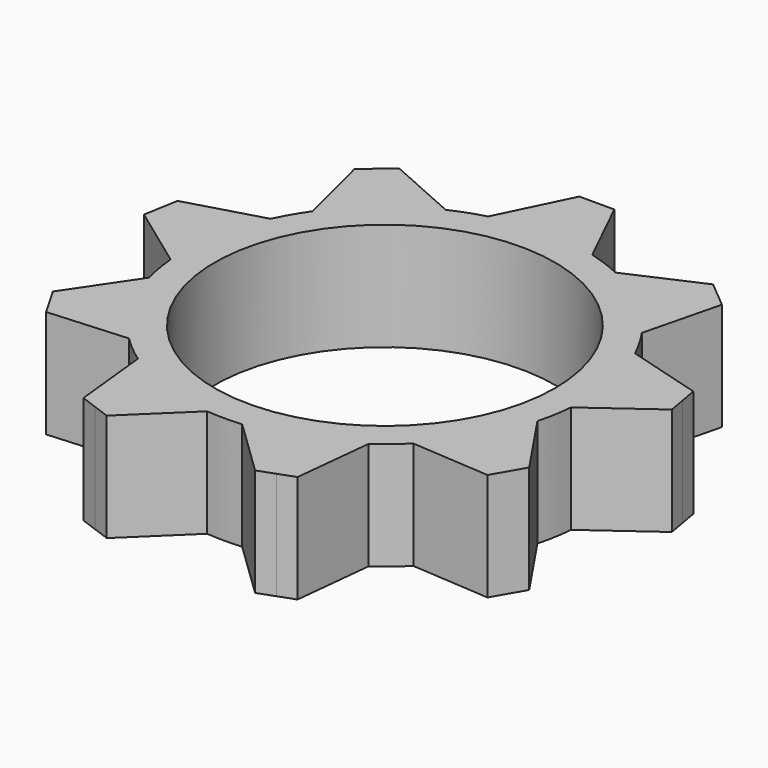
from build123d import *

# Parameters (mm, degrees)
F0_R     = 11.05
F1_DEPTH = 7


with BuildPart() as f1:
    # F0 (on Top) → F1 (new body)
    with BuildSketch(Plane.XY):
        with BuildLine():
            ThreePointArc((-3.377589, 12.605332), (0, 13.05), (3.377589, 12.605332))
            Line((3.377589, 12.605332), (1.135, 17.2))
            Line((1.135, 17.2), (0, 17.2))
            Line((0, 17.2), (-1.135, 17.2))
            Line((-1.135, 17.2), (-3.377589, 12.605332))
        make_face()
        with BuildLine():
            ThreePointArc((13.000341, -1.137382), (13.037579, -0.569233), (13.05, 0))
            ThreePointArc((13.05, 0), (12.740663, 2.824537), (11.827317, 5.515168))
            ThreePointArc((11.827317, 5.515168), (11.301632, 6.525), (10.689934, 7.485172))
            ThreePointArc((10.689934, 7.485172), (8.388378, 9.99688), (5.515168, 11.827317))
            ThreePointArc((5.515168, 11.827317), (4.463363, 12.262989), (3.377589, 12.605332))
            ThreePointArc((3.377589, 12.605332), (0, 13.05), (-3.377589, 12.605332))
            ThreePointArc((-3.377589, 12.605332), (-4.463363, 12.262989), (-5.515168, 11.827317))
            ThreePointArc((-5.515168, 11.827317), (-8.388378, 9.99688), (-10.689934, 7.485172))
            ThreePointArc((-10.689934, 7.485172), (-11.301632, 6.525), (-11.827317, 5.515168))
            ThreePointArc((-11.827317, 5.515168), (-12.851741, 2.266109), (-13.000341, -1.137382))
            ThreePointArc((-13.000341, -1.137382), (-12.851741, -2.266109), (-12.605332, -3.377589))
            ThreePointArc((-12.605332, -3.377589), (-11.301632, -6.525), (-9.227743, -9.227743))
            ThreePointArc((-9.227743, -9.227743), (-8.388378, -9.99688), (-7.485172, -10.689934))
            ThreePointArc((-7.485172, -10.689934), (-4.463363, -12.262989), (-1.137382, -13.000341))
            ThreePointArc((-1.137382, -13.000341), (0, -13.05), (1.137382, -13.000341))
            ThreePointArc((1.137382, -13.000341), (4.463363, -12.262989), (7.485172, -10.689934))
            ThreePointArc((7.485172, -10.689934), (8.388378, -9.99688), (9.227743, -9.227743))
            ThreePointArc((9.227743, -9.227743), (11.301632, -6.525), (12.605332, -3.377589))
            ThreePointArc((12.605332, -3.377589), (12.851741, -2.266109), (13.000341, -1.137382))
        make_face()
        Circle(F0_R, mode=Mode.SUBTRACT)
        with BuildLine():
            ThreePointArc((5.515168, 11.827317), (8.388378, 9.99688), (10.689934, 7.485172))
            Line((10.689934, 7.485172), (11.925407, 12.4464))
            Line((11.925407, 12.4464), (11.055947, 13.175964))
            Line((11.055947, 13.175964), (10.186486, 13.905528))
            Line((10.186486, 13.905528), (5.515168, 11.827317))
        make_face()
        with BuildLine():
            ThreePointArc((11.827317, 5.515168), (12.740663, 2.824537), (13.05, 0))
            ThreePointArc((13.05, 0), (13.037579, -0.569233), (13.000341, -1.137382))
            Line((13.000341, -1.137382), (17.135784, 1.868992))
            Line((17.135784, 1.868992), (16.938693, 2.986749))
            Line((16.938693, 2.986749), (16.741603, 4.104505))
            Line((16.741603, 4.104505), (11.827317, 5.515168))
        make_face()
        with BuildLine():
            Line((15.463137, -7.617061), (12.605332, -3.377589))
            ThreePointArc((12.605332, -3.377589), (11.301632, -6.525), (9.227743, -9.227743))
            Line((9.227743, -9.227743), (14.328137, -9.582939))
            Line((14.328137, -9.582939), (14.895637, -8.6))
            Line((14.895637, -8.6), (15.463137, -7.617061))
        make_face()
        with BuildLine():
            Line((6.949298, -15.77452), (7.485172, -10.689934))
            ThreePointArc((7.485172, -10.689934), (4.463363, -12.262989), (1.137382, -13.000341))
            Line((1.137382, -13.000341), (4.816195, -16.550906))
            Line((4.816195, -16.550906), (5.882746, -16.162713))
            Line((5.882746, -16.162713), (6.949298, -15.77452))
        make_face()
        with BuildLine():
            Line((-4.816195, -16.550906), (-1.137382, -13.000341))
            ThreePointArc((-1.137382, -13.000341), (-4.463363, -12.262989), (-7.485172, -10.689934))
            Line((-7.485172, -10.689934), (-6.949298, -15.77452))
            Line((-6.949298, -15.77452), (-5.882746, -16.162713))
            Line((-5.882746, -16.162713), (-4.816195, -16.550906))
        make_face()
        with BuildLine():
            Line((-14.328137, -9.582939), (-9.227743, -9.227743))
            ThreePointArc((-9.227743, -9.227743), (-11.301632, -6.525), (-12.605332, -3.377589))
            Line((-12.605332, -3.377589), (-15.463137, -7.617061))
            Line((-15.463137, -7.617061), (-14.895637, -8.6))
            Line((-14.895637, -8.6), (-14.328137, -9.582939))
        make_face()
        with BuildLine():
            ThreePointArc((-13.000341, -1.137382), (-12.851741, 2.266109), (-11.827317, 5.515168))
            Line((-11.827317, 5.515168), (-16.741603, 4.104505))
            Line((-16.741603, 4.104505), (-16.938693, 2.986749))
            Line((-16.938693, 2.986749), (-17.135784, 1.868992))
            Line((-17.135784, 1.868992), (-13.000341, -1.137382))
        make_face()
        with BuildLine():
            ThreePointArc((-10.689934, 7.485172), (-8.388378, 9.99688), (-5.515168, 11.827317))
            Line((-5.515168, 11.827317), (-10.186486, 13.905528))
            Line((-10.186486, 13.905528), (-11.055947, 13.175964))
            Line((-11.055947, 13.175964), (-11.925407, 12.4464))
            Line((-11.925407, 12.4464), (-10.689934, 7.485172))
        make_face()
    extrude(amount=F1_DEPTH)


solid = f1.part
